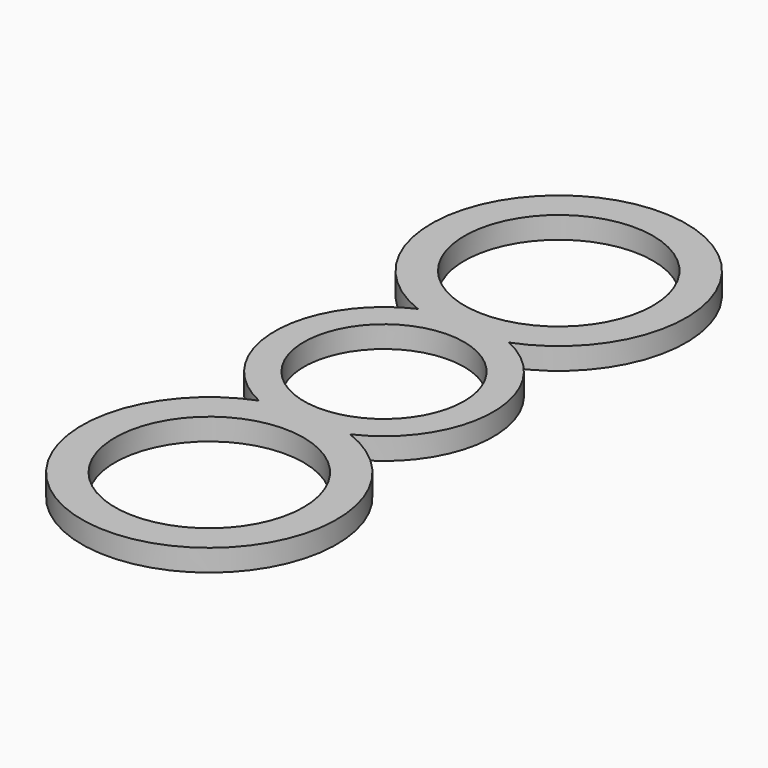
from build123d import *

# Parameters (mm, degrees)
F0_R     = 12.95
F0_R_2   = 11
F1_DEPTH = 3


with BuildPart() as f1:
    # F0 (on Top) → F1 (new body)
    with BuildSketch(Plane.XY):
        with BuildLine():
            ThreePointArc((6.249762, 13.635999), (0, 47.481961), (-6.249762, 13.635999))
            ThreePointArc((-6.249762, 13.635999), (-15, 0), (-6.249762, -13.635999))
            ThreePointArc((-6.249762, -13.635999), (0, -47.481961), (6.249762, -13.635999))
            ThreePointArc((6.249762, -13.635999), (15, 0), (6.249762, 13.635999))
        make_face()
        with Locations((0, -29.981961)):
            Circle(F0_R, mode=Mode.SUBTRACT)
        Circle(F0_R_2, mode=Mode.SUBTRACT)
        with Locations((0, 29.981961)):
            Circle(F0_R, mode=Mode.SUBTRACT)
    extrude(amount=F1_DEPTH)


solid = f1.part
